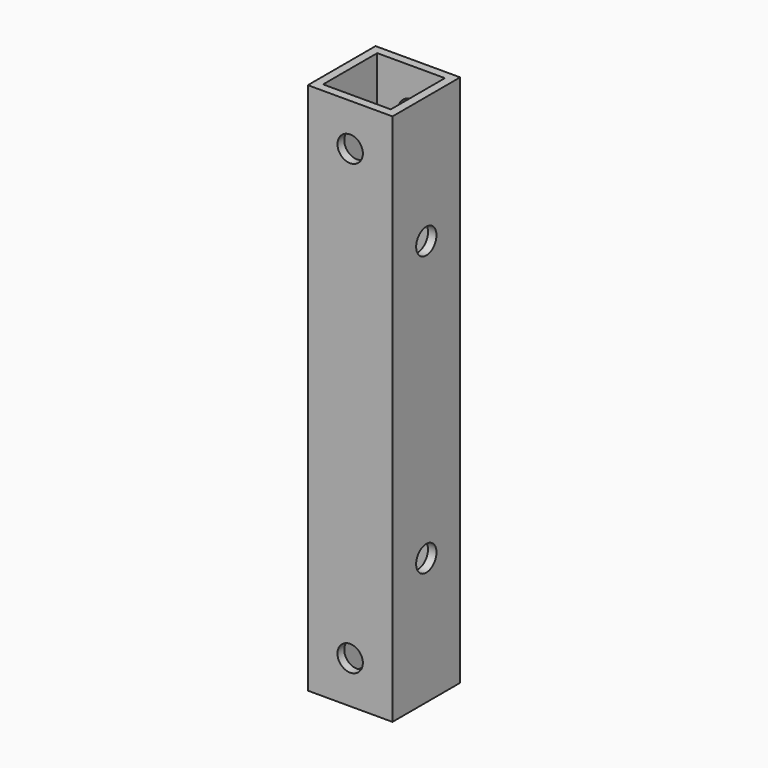
from build123d import *

# Parameters (mm, degrees)
F0_W     = 10
F0_H     = 10
F0_W_2   = 8
F0_H_2   = 8
F1_DEPTH = 63
F2_R     = 1.5
F3_DEPTH = 25
F4_R     = 1.5
F5_DEPTH = 25


with BuildPart() as f1:
    # F0 (on Top) → F1 (new body)
    with BuildSketch(Plane.XY):
        Rectangle(F0_W, F0_H)
        Rectangle(F0_W_2, F0_H_2, mode=Mode.SUBTRACT)
    extrude(amount=F1_DEPTH)

    # F2 (on face) → F3 (cut)
    with BuildSketch(Plane.XZ.offset(5)):
        with Locations((0, 5)):
            Circle(F2_R)
        with Locations((0, 58)):
            Circle(F2_R)
    extrude(amount=-F3_DEPTH, mode=Mode.SUBTRACT)

    # F4 (on face) → F5 (cut)
    with BuildSketch(Plane.YZ.offset(5)):
        with Locations((0, 48)):
            Circle(F4_R)
        with Locations((0, 15)):
            Circle(F4_R)
    extrude(amount=-F5_DEPTH, mode=Mode.SUBTRACT)


solid = f1.part
